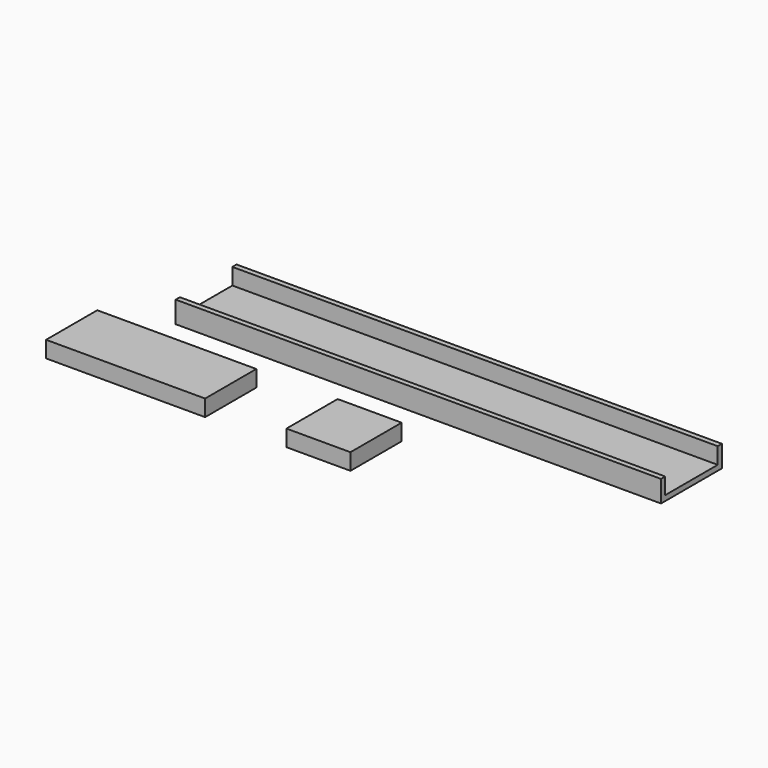
from build123d import *

# Parameters (mm, degrees)
F0_W     = 19.5
F0_H     = 19.5
F1_DEPTH = 5
F0_W_2   = 48.4686139971
F2_W     = 147.9186050977
F2_H     = 20
F3_DEPTH = 5
F4_T     = 1.6


with BuildPart() as f1:
    # F0 (on Top) → F1 (new body)
    with BuildSketch(Plane.XY):
        with Locations((9.75, -9.75)):
            Rectangle(F0_W, F0_H)
    extrude(amount=F1_DEPTH)


with BuildPart() as f1b:
    # F0 (on Top) → F1, piece 2 (new body)
    with BuildSketch(Plane.XY):
        with Locations((-49.0234224126, -9.75)):
            Rectangle(F0_W_2, F0_H)
    extrude(amount=F1_DEPTH)


with BuildPart() as f3:
    # F2 (on Top) → F3 (new body)
    with BuildSketch(Plane.XY):
        with Locations((11.8566602468, 27.5220619515)):
            Rectangle(F2_W, F2_H)
    extrude(amount=F3_DEPTH)

    # F4
    f4_openings = [f3.faces().sort_by_distance(p)[0] for p in [
        (11.85666, 27.522062, 5),
        (-62.102642, 27.522062, 2.5),
        (85.815963, 27.522062, 2.5),
    ]]
    offset(amount=F4_T, openings=f4_openings, kind=Kind.INTERSECTION)


solid = Compound([f1.part, f1b.part, f3.part])
